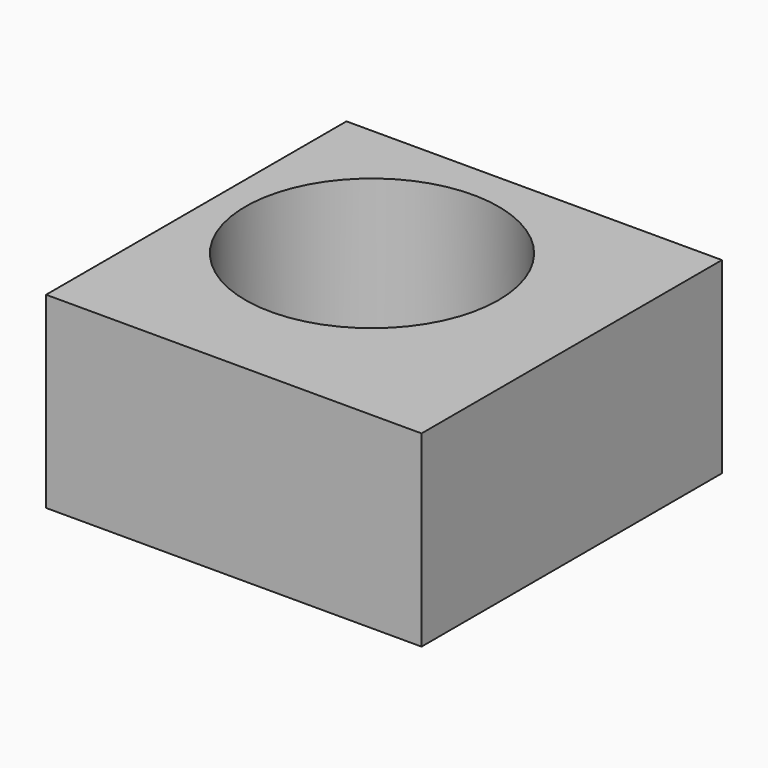
from build123d import *

# Parameters (mm, degrees)
F0_W     = 50
F0_H     = 50
F1_DEPTH = 25
F2_R     = 16.860493
F3_DEPTH = 25


with BuildPart() as f1:
    # F0 (on Top) → F1 (new body)
    with BuildSketch(Plane.XY):
        with Locations((29.129597, -22.695316)):
            Rectangle(F0_W, F0_H)
    extrude(amount=F1_DEPTH)

    # F2 (on face) → F3 (cut, through all)
    with BuildSketch(Plane(origin=(0, 0, 0), x_dir=(1, 0, 0), z_dir=(0, 0, -1))):
        with Locations((24.772042, 19.247025)):
            Circle(F2_R)
    extrude(amount=-F3_DEPTH, mode=Mode.SUBTRACT)


solid = f1.part
